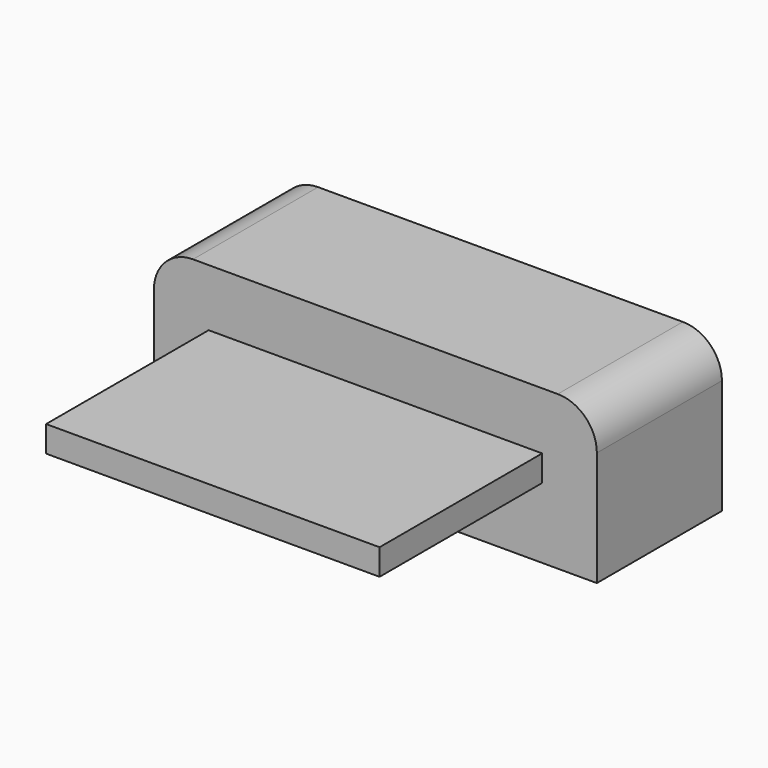
from build123d import *

# Parameters (mm, degrees)
BOX001_W                  = 6.4
BOX001_H                  = 0.5
BOX001_DEPTH              = 6.9
BOX067_W                  = 8.5
BOX067_H                  = 2.95
BOX067_DEPTH              = 3
FILLET017_R               = 0.75
FUSION051_PLACEMENT_ANGLE = 90


with BuildPart() as cube043:
    # Box001 → Box001 (new body)
    with BuildSketch(Plane(origin=(-3.2, 1.35, 0), x_dir=(1, 0, 0), z_dir=(0, 0, 1))):
        with Locations((3.2, 0.25)):
            Rectangle(BOX001_W, BOX001_H)
    extrude(amount=BOX001_DEPTH)


with BuildPart() as body013:
    # Box067 → Box067 (new body)
    with BuildSketch(Plane(origin=(-4.25, 0, 0), x_dir=(1, 0, 0), z_dir=(0, 0, 1))):
        with Locations((4.25, 1.475)):
            Rectangle(BOX067_W, BOX067_H)
    extrude(amount=BOX067_DEPTH)

    # Fillet017
    fillet017_edges = [body013.edges().sort_by_distance(p)[0] for p in [
        (-4.25, 2.95, 1.5),
        (4.25, 2.95, 1.5),
    ]]
    fillet(fillet017_edges, radius=FILLET017_R)

    # Fusion051: union Cube043
    add(cube043.part)


with BuildPart() as body013_1:
    # Fusion051 placement: moved
    add(body013.part.rotate(Axis((0, 0, 0), (1, 0, 0)), FUSION051_PLACEMENT_ANGLE))


solid = body013_1.part
